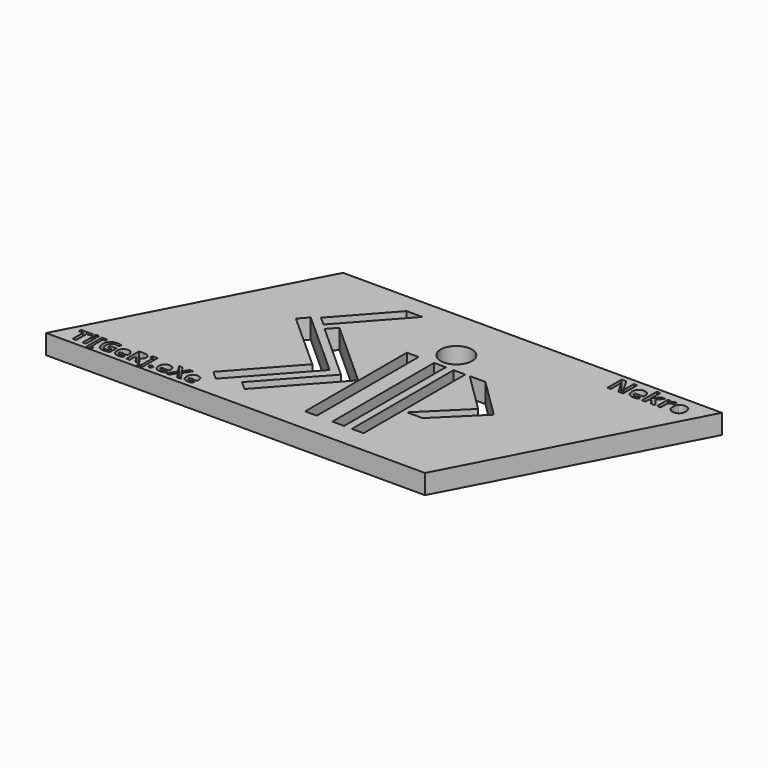
from build123d import *

# Parameters (mm, degrees)
F0_W     = 1.0768817274
F0_H     = 3.9481896701
F0_W_2   = 3.81
F0_H_2   = 41.2525174606
F0_R     = 5.08
F1_DEPTH = 6.35


with BuildPart() as f1:
    # F0 (on Top) → F1 (new body)
    with BuildSketch(Plane.XY):
        Polygon((24.3400321393, 46.8146689456), (-60.4495673837, 46.8146689456), (-98.5495673837, -25.9498842061), (24.3400321393, -25.9498842061), (62.4400321393, 46.8146689456), align=None)
        Polygon((-90.1926522909, -19.9972726766), (-90.1926522909, -24.2494300116), (-91.2876138794, -24.2494300116), (-91.2876138794, -19.9972726766), (-92.6899331068, -19.9972726766), (-92.6899331068, -19.0864996731), (-88.7914630548, -19.0864996731), (-88.7914630548, -19.9972726766), align=None, mode=Mode.SUBTRACT)
        with Locations((-87.5433876424, -22.2753351766)):
            Rectangle(F0_W, F0_H, mode=Mode.SUBTRACT)
        Polygon((-84.2262981242, -24.6483169474), (-84.2262981242, -25.3941112182), (-85.9348449992, -25.3941112182), (-85.9348449992, -19.0864996731), (-84.2262981242, -19.0864996731), (-84.2262981242, -19.8322939439), (-85.0172920478, -19.8322939439), (-85.0172920478, -24.6483169474), align=None, mode=Mode.SUBTRACT)
        with BuildLine():
            Line((-81.4363495565, -22.2617752807), (-81.4363495565, -21.3498722859))
            Line((-81.4363495565, -21.3498722859), (-79.3876752943, -21.3498722859))
            Line((-79.3876752943, -21.3498722859), (-79.3876752943, -24.0268217217))
            add(Edge.make_bspline(
                [(-79.3876752943, -24.0268217217), (-79.8860014662, -24.1895404717), (-80.3255680895, -24.2550799682)],
                knots=[0, 0, 0, 1, 1, 1], degree=2))
            add(Edge.make_bspline(
                [(-80.3255680895, -24.2550799682), (-80.7651347127, -24.3206194648), (-81.2239111884, -24.3206194648)],
                knots=[0, 0, 0, 1, 1, 1], degree=2))
            add(Edge.make_bspline(
                [(-81.2239111884, -24.3206194648), (-82.3923222127, -24.3206194648), (-83.0087324775, -23.6335847425)],
                knots=[0, 0, 0, 1, 1, 1], degree=2))
            add(Edge.make_bspline(
                [(-83.0087324775, -23.6335847425), (-83.6251427423, -22.9465500203), (-83.6251427423, -21.6606198988)],
                knots=[0, 0, 0, 1, 1, 1], degree=2))
            add(Edge.make_bspline(
                [(-83.6251427423, -21.6606198988), (-83.6251427423, -20.4108494995), (-82.9098582371, -19.7119498684)],
                knots=[0, 0, 0, 1, 1, 1], degree=2))
            add(Edge.make_bspline(
                [(-82.9098582371, -19.7119498684), (-82.1945737318, -19.0130502373), (-80.9278534627, -19.0130502373)],
                knots=[0, 0, 0, 1, 1, 1], degree=2))
            add(Edge.make_bspline(
                [(-80.9278534627, -19.0130502373), (-80.1323395739, -19.0130502373), (-79.3944552423, -19.3305777981)],
                knots=[0, 0, 0, 1, 1, 1], degree=2))
            Line((-79.3944552423, -19.3305777981), (-79.7583124471, -20.2063210707))
            add(Edge.make_bspline(
                [(-79.7583124471, -20.2063210707), (-80.3233081068, -19.9238232408), (-80.9346334107, -19.9238232408)],
                knots=[0, 0, 0, 1, 1, 1], degree=2))
            add(Edge.make_bspline(
                [(-80.9346334107, -19.9238232408), (-81.6442679593, -19.9238232408), (-82.071404678, -20.4006795776)],
                knots=[0, 0, 0, 1, 1, 1], degree=2))
            add(Edge.make_bspline(
                [(-82.071404678, -20.4006795776), (-82.4985413968, -20.8775359144), (-82.4985413968, -21.6820897339)],
                knots=[0, 0, 0, 1, 1, 1], degree=2))
            add(Edge.make_bspline(
                [(-82.4985413968, -21.6820897339), (-82.4985413968, -22.5228032755), (-82.15445904, -22.9657598727)],
                knots=[0, 0, 0, 1, 1, 1], degree=2))
            add(Edge.make_bspline(
                [(-82.15445904, -22.9657598727), (-81.8103766832, -23.40871647), (-81.1538517266, -23.40871647)],
                knots=[0, 0, 0, 1, 1, 1], degree=2))
            add(Edge.make_bspline(
                [(-81.1538517266, -23.40871647), (-80.8103343655, -23.40871647), (-80.4577770739, -23.3386570082)],
                knots=[0, 0, 0, 1, 1, 1], degree=2))
            Line((-80.4577770739, -23.3386570082), (-80.4577770739, -22.2617752807))
            Line((-80.4577770739, -22.2617752807), (-81.4363495565, -22.2617752807))
        make_face(mode=Mode.SUBTRACT)
        with BuildLine():
            add(Edge.make_bspline(
                [(-87.5416926555, -19.8108241089), (-88.1281581502, -19.8108241089), (-88.1281581502, -19.28085818)],
                knots=[0, 0, 0, 1, 1, 1], degree=2))
            add(Edge.make_bspline(
                [(-88.1281581502, -19.28085818), (-88.1281581502, -18.7542822252), (-87.5416926555, -18.7542822252)],
                knots=[0, 0, 0, 1, 1, 1], degree=2))
            add(Edge.make_bspline(
                [(-87.5416926555, -18.7542822252), (-86.9552271607, -18.7542822252), (-86.9552271607, -19.28085818)],
                knots=[0, 0, 0, 1, 1, 1], degree=2))
            add(Edge.make_bspline(
                [(-86.9552271607, -19.28085818), (-86.9552271607, -19.5317162529), (-87.1015610365, -19.6712701809)],
                knots=[0, 0, 0, 1, 1, 1], degree=2))
            add(Edge.make_bspline(
                [(-87.1015610365, -19.6712701809), (-87.2478949124, -19.8108241089), (-87.5416926555, -19.8108241089)],
                knots=[0, 0, 0, 1, 1, 1], degree=2))
        make_face(mode=Mode.SUBTRACT)
        with BuildLine():
            add(Edge.make_bspline(
                [(-75.6733938273, -24.2516899943), (-75.9943113621, -24.3206194648), (-76.457607803, -24.3206194648)],
                knots=[0, 0, 0, 1, 1, 1], degree=2))
            add(Edge.make_bspline(
                [(-76.457607803, -24.3206194648), (-77.4101904853, -24.3206194648), (-77.9469363621, -23.7940435099)],
                knots=[0, 0, 0, 1, 1, 1], degree=2))
            add(Edge.make_bspline(
                [(-77.9469363621, -23.7940435099), (-78.4836822388, -23.267467555), (-78.4836822388, -22.3035849595)],
                knots=[0, 0, 0, 1, 1, 1], degree=2))
            add(Edge.make_bspline(
                [(-78.4836822388, -22.3035849595), (-78.4836822388, -21.3114525811), (-77.9876160496, -20.7696217434)],
                knots=[0, 0, 0, 1, 1, 1], degree=2))
            add(Edge.make_bspline(
                [(-77.9876160496, -20.7696217434), (-77.4915498603, -20.2277909057), (-76.6158065877, -20.2277909057)],
                knots=[0, 0, 0, 1, 1, 1], degree=2))
            add(Edge.make_bspline(
                [(-76.6158065877, -20.2277909057), (-75.7796130114, -20.2277909057), (-75.3134915921, -20.7040822469)],
                knots=[0, 0, 0, 1, 1, 1], degree=2))
            add(Edge.make_bspline(
                [(-75.3134915921, -20.7040822469), (-74.8473701728, -21.180373588), (-74.8473701728, -22.0210871297)],
                knots=[0, 0, 0, 1, 1, 1], degree=2))
            Line((-74.8473701728, -22.0210871297), (-74.8473701728, -22.5442731106))
            Line((-74.8473701728, -22.5442731106), (-77.3932406155, -22.5442731106))
            add(Edge.make_bspline(
                [(-77.3932406155, -22.5442731106), (-77.3751607544, -23.0030495863), (-77.1209127075, -23.2606876071)],
                knots=[0, 0, 0, 1, 1, 1], degree=2))
            add(Edge.make_bspline(
                [(-77.1209127075, -23.2606876071), (-76.8666646607, -23.5183256279), (-76.407888185, -23.5183256279)],
                knots=[0, 0, 0, 1, 1, 1], degree=2))
            add(Edge.make_bspline(
                [(-76.407888185, -23.5183256279), (-76.050810928, -23.5183256279), (-75.7332833673, -23.4443111965)],
                knots=[0, 0, 0, 1, 1, 1], degree=2))
            add(Edge.make_bspline(
                [(-75.7332833673, -23.4443111965), (-75.4157558065, -23.3702967651), (-75.0699784627, -23.2075780151)],
                knots=[0, 0, 0, 1, 1, 1], degree=2))
            Line((-75.0699784627, -23.2075780151), (-75.0699784627, -24.0415116089))
            add(Edge.make_bspline(
                [(-75.0699784627, -24.0415116089), (-75.3524762926, -24.1827605238), (-75.6733938273, -24.2516899943)],
                knots=[0, 0, 0, 1, 1, 1], degree=2))
        make_face(mode=Mode.SUBTRACT)
        with BuildLine():
            Line((-72.2099704332, -22.2685552286), (-72.7919159627, -22.2685552286))
            Line((-72.7919159627, -22.2685552286), (-72.7919159627, -24.2494300116))
            Line((-72.7919159627, -24.2494300116), (-73.8868775513, -24.2494300116))
            Line((-73.8868775513, -24.2494300116), (-73.8868775513, -19.0864996731))
            Line((-73.8868775513, -19.0864996731), (-72.3828591051, -19.0864996731))
            add(Edge.make_bspline(
                [(-72.3828591051, -19.0864996731), (-71.3297071954, -19.0864996731), (-70.8251660713, -19.4695667304)],
                knots=[0, 0, 0, 1, 1, 1], degree=2))
            add(Edge.make_bspline(
                [(-70.8251660713, -19.4695667304), (-70.3206249471, -19.8526337877), (-70.3206249471, -20.6334577894)],
                knots=[0, 0, 0, 1, 1, 1], degree=2))
            add(Edge.make_bspline(
                [(-70.3206249471, -20.6334577894), (-70.3206249471, -21.0888442911), (-70.5709180244, -21.4436615654)],
                knots=[0, 0, 0, 1, 1, 1], degree=2))
            add(Edge.make_bspline(
                [(-70.5709180244, -21.4436615654), (-70.8212111016, -21.7984788398), (-71.2811175687, -21.9996172946)],
                knots=[0, 0, 0, 1, 1, 1], degree=2))
            add(Edge.make_bspline(
                [(-71.2811175687, -21.9996172946), (-70.114966527, -23.7409339179), (-69.7624092353, -24.2494300116)],
                knots=[0, 0, 0, 1, 1, 1], degree=2))
            Line((-69.7624092353, -24.2494300116), (-70.9771499037, -24.2494300116))
            Line((-70.9771499037, -24.2494300116), (-72.2099704332, -22.2685552286))
        make_face(mode=Mode.SUBTRACT)
        Polygon((-69.5827406155, -25.3941112182), (-69.5827406155, -24.6483169474), (-68.7951366659, -24.6483169474), (-68.7951366659, -19.8322939439), (-69.5827406155, -19.8322939439), (-69.5827406155, -19.0864996731), (-67.8730637492, -19.0864996731), (-67.8730637492, -25.3941112182), align=None, mode=Mode.SUBTRACT)
        with BuildLine():
            add(Edge.make_bspline(
                [(-66.7922270522, -24.1872804891), (-66.9543808065, -24.0302116957), (-66.9543808065, -23.7443238918)],
                knots=[0, 0, 0, 1, 1, 1], degree=2))
            add(Edge.make_bspline(
                [(-66.9543808065, -23.7443238918), (-66.9543808065, -23.4482661661), (-66.7956170261, -23.2962823337)],
                knots=[0, 0, 0, 1, 1, 1], degree=2))
            add(Edge.make_bspline(
                [(-66.7956170261, -23.2962823337), (-66.6368532457, -23.1442985012), (-66.3328855808, -23.1442985012)],
                knots=[0, 0, 0, 1, 1, 1], degree=2))
            add(Edge.make_bspline(
                [(-66.3328855808, -23.1442985012), (-66.0402178291, -23.1442985012), (-65.8797590617, -23.2996723076)],
                knots=[0, 0, 0, 1, 1, 1], degree=2))
            add(Edge.make_bspline(
                [(-65.8797590617, -23.2996723076), (-65.7193002943, -23.4550461141), (-65.7193002943, -23.7443238918)],
                knots=[0, 0, 0, 1, 1, 1], degree=2))
            add(Edge.make_bspline(
                [(-65.7193002943, -23.7443238918), (-65.7193002943, -24.0234317477), (-65.8814540487, -24.1838905151)],
                knots=[0, 0, 0, 1, 1, 1], degree=2))
            add(Edge.make_bspline(
                [(-65.8814540487, -24.1838905151), (-66.043607803, -24.3443492825), (-66.3328855808, -24.3443492825)],
                knots=[0, 0, 0, 1, 1, 1], degree=2))
            add(Edge.make_bspline(
                [(-66.3328855808, -24.3443492825), (-66.6300732978, -24.3443492825), (-66.7922270522, -24.1872804891)],
                knots=[0, 0, 0, 1, 1, 1], degree=2))
        make_face(mode=Mode.SUBTRACT)
        with BuildLine():
            add(Edge.make_bspline(
                [(-62.16999756, -24.2516899943), (-62.4909150947, -24.3206194648), (-62.9542115357, -24.3206194648)],
                knots=[0, 0, 0, 1, 1, 1], degree=2))
            add(Edge.make_bspline(
                [(-62.9542115357, -24.3206194648), (-63.906794218, -24.3206194648), (-64.4435400947, -23.7940435099)],
                knots=[0, 0, 0, 1, 1, 1], degree=2))
            add(Edge.make_bspline(
                [(-64.4435400947, -23.7940435099), (-64.9802859714, -23.267467555), (-64.9802859714, -22.3035849595)],
                knots=[0, 0, 0, 1, 1, 1], degree=2))
            add(Edge.make_bspline(
                [(-64.9802859714, -22.3035849595), (-64.9802859714, -21.3114525811), (-64.4842197822, -20.7696217434)],
                knots=[0, 0, 0, 1, 1, 1], degree=2))
            add(Edge.make_bspline(
                [(-64.4842197822, -20.7696217434), (-63.988153593, -20.2277909057), (-63.1124103204, -20.2277909057)],
                knots=[0, 0, 0, 1, 1, 1], degree=2))
            add(Edge.make_bspline(
                [(-63.1124103204, -20.2277909057), (-62.276216744, -20.2277909057), (-61.8100953247, -20.7040822469)],
                knots=[0, 0, 0, 1, 1, 1], degree=2))
            add(Edge.make_bspline(
                [(-61.8100953247, -20.7040822469), (-61.3439739055, -21.180373588), (-61.3439739055, -22.0210871297)],
                knots=[0, 0, 0, 1, 1, 1], degree=2))
            Line((-61.3439739055, -22.0210871297), (-61.3439739055, -22.5442731106))
            Line((-61.3439739055, -22.5442731106), (-63.8898443482, -22.5442731106))
            add(Edge.make_bspline(
                [(-63.8898443482, -22.5442731106), (-63.8717644871, -23.0030495863), (-63.6175164402, -23.2606876071)],
                knots=[0, 0, 0, 1, 1, 1], degree=2))
            add(Edge.make_bspline(
                [(-63.6175164402, -23.2606876071), (-63.3632683933, -23.5183256279), (-62.9044919176, -23.5183256279)],
                knots=[0, 0, 0, 1, 1, 1], degree=2))
            add(Edge.make_bspline(
                [(-62.9044919176, -23.5183256279), (-62.5474146607, -23.5183256279), (-62.2298870999, -23.4443111965)],
                knots=[0, 0, 0, 1, 1, 1], degree=2))
            add(Edge.make_bspline(
                [(-62.2298870999, -23.4443111965), (-61.9123595391, -23.3702967651), (-61.5665821954, -23.2075780151)],
                knots=[0, 0, 0, 1, 1, 1], degree=2))
            Line((-61.5665821954, -23.2075780151), (-61.5665821954, -24.0415116089))
            add(Edge.make_bspline(
                [(-61.5665821954, -24.0415116089), (-61.8490800252, -24.1827605238), (-62.16999756, -24.2516899943)],
                knots=[0, 0, 0, 1, 1, 1], degree=2))
        make_face(mode=Mode.SUBTRACT)
        Polygon((-57.9539999471, -21.6470600029), (-56.2092933499, -24.2494300116), (-57.4590637492, -24.2494300116), (-58.6602445218, -22.2968050116), (-59.860295303, -24.2494300116), (-61.0332262926, -24.2494300116), (-59.3201594523, -21.587170463), (-60.9236171346, -19.0864996731), (-59.7156564141, -19.0864996731), (-58.6037449558, -20.9442054023), (-57.5121733412, -19.0864996731), (-56.333592395, -19.0864996731), align=None, mode=Mode.SUBTRACT)
        with BuildLine():
            add(Edge.make_bspline(
                [(-53.0735674384, -24.2516899943), (-53.3944849732, -24.3206194648), (-53.8577814141, -24.3206194648)],
                knots=[0, 0, 0, 1, 1, 1], degree=2))
            add(Edge.make_bspline(
                [(-53.8577814141, -24.3206194648), (-54.8103640964, -24.3206194648), (-55.3471099732, -23.7940435099)],
                knots=[0, 0, 0, 1, 1, 1], degree=2))
            add(Edge.make_bspline(
                [(-55.3471099732, -23.7940435099), (-55.8838558499, -23.267467555), (-55.8838558499, -22.3035849595)],
                knots=[0, 0, 0, 1, 1, 1], degree=2))
            add(Edge.make_bspline(
                [(-55.8838558499, -22.3035849595), (-55.8838558499, -21.3114525811), (-55.3877896607, -20.7696217434)],
                knots=[0, 0, 0, 1, 1, 1], degree=2))
            add(Edge.make_bspline(
                [(-55.3877896607, -20.7696217434), (-54.8917234714, -20.2277909057), (-54.0159801989, -20.2277909057)],
                knots=[0, 0, 0, 1, 1, 1], degree=2))
            add(Edge.make_bspline(
                [(-54.0159801989, -20.2277909057), (-53.1797866225, -20.2277909057), (-52.7136652032, -20.7040822469)],
                knots=[0, 0, 0, 1, 1, 1], degree=2))
            add(Edge.make_bspline(
                [(-52.7136652032, -20.7040822469), (-52.2475437839, -21.180373588), (-52.2475437839, -22.0210871297)],
                knots=[0, 0, 0, 1, 1, 1], degree=2))
            Line((-52.2475437839, -22.0210871297), (-52.2475437839, -22.5442731106))
            Line((-52.2475437839, -22.5442731106), (-54.7934142266, -22.5442731106))
            add(Edge.make_bspline(
                [(-54.7934142266, -22.5442731106), (-54.7753343655, -23.0030495863), (-54.5210863187, -23.2606876071)],
                knots=[0, 0, 0, 1, 1, 1], degree=2))
            add(Edge.make_bspline(
                [(-54.5210863187, -23.2606876071), (-54.2668382718, -23.5183256279), (-53.8080617961, -23.5183256279)],
                knots=[0, 0, 0, 1, 1, 1], degree=2))
            add(Edge.make_bspline(
                [(-53.8080617961, -23.5183256279), (-53.4509845391, -23.5183256279), (-53.1334569784, -23.4443111965)],
                knots=[0, 0, 0, 1, 1, 1], degree=2))
            add(Edge.make_bspline(
                [(-53.1334569784, -23.4443111965), (-52.8159294176, -23.3702967651), (-52.4701520739, -23.2075780151)],
                knots=[0, 0, 0, 1, 1, 1], degree=2))
            Line((-52.4701520739, -23.2075780151), (-52.4701520739, -24.0415116089))
            add(Edge.make_bspline(
                [(-52.4701520739, -24.0415116089), (-52.7526499037, -24.1827605238), (-53.0735674384, -24.2516899943)],
                knots=[0, 0, 0, 1, 1, 1], degree=2))
        make_face(mode=Mode.SUBTRACT)
        Polygon((-54.0995673837, 19.7564052306), (-51.552794192, 22.5901388649), (-32.6460846729, 5.6285252872), (-29.807531414, 3.0819984339), (-32.3690509945, 0.2318568454), (-49.3284006848, -18.672329172), (-52.1644071127, -16.1280871353), (-35.1903256954, 2.7925199897), align=None, mode=Mode.SUBTRACT)
        Polygon((-44.8753105365, 19.8662729276), (-42.3285373448, 22.7000065618), (-23.436979783, 5.7215186171), (-20.6032461487, 3.1747454254), (-23.1517854681, 0.3390466631), (-40.1302734129, -18.5525108987), (-42.9640070471, -16.005737707), (-25.9837529747, 2.8877849828), align=None, mode=Mode.SUBTRACT)
        with Locations((-18.5649433869, 2.0940999396)):
            Rectangle(F0_W_2, F0_H_2, mode=Mode.SUBTRACT)
        with Locations((-9.6756167746, 2.0113885988)):
            Rectangle(F0_W_2, F0_H_2, mode=Mode.SUBTRACT)
        with Locations((-3.3257010499, 1.9906977471)):
            Rectangle(F0_W_2, F0_H_2, mode=Mode.SUBTRACT)
        Polygon((12.9100321393, 9.8957462941), (0, 22.6169564774), (5.08, 22.6169564774), (17.9900321393, 9.8957462941), (5.08, -2.8254638892), (0, -2.8254638892), align=None, mode=Mode.SUBTRACT)
        Polygon((-46.5986006285, 21.5579594265), (-49.4346070564, 24.1022014632), (-34.7554874383, 40.4646689456), (-29.6369870508, 40.4646689456), align=None, mode=Mode.SUBTRACT)
        with Locations((-9.802618064, 29.4407680631)):
            Circle(F0_R, mode=Mode.SUBTRACT)
        with BuildLine():
            add(Edge.make_bspline(
                [(40.4761865696, 39.454581701), (40.1215668341, 39.3784133776), (39.6096158074, 39.3784133776)],
                knots=[0, 0, 0, 1, 1, 1], degree=2))
            add(Edge.make_bspline(
                [(39.6096158074, 39.3784133776), (38.5569945502, 39.3784133776), (37.9638805559, 39.9602894225)],
                knots=[0, 0, 0, 1, 1, 1], degree=2))
            add(Edge.make_bspline(
                [(37.9638805559, 39.9602894225), (37.3707665616, 40.5421654674), (37.3707665616, 41.6072733351)],
                knots=[0, 0, 0, 1, 1, 1], degree=2))
            add(Edge.make_bspline(
                [(37.3707665616, 41.6072733351), (37.3707665616, 42.7035977288), (37.9189287584, 43.3023306978)],
                knots=[0, 0, 0, 1, 1, 1], degree=2))
            add(Edge.make_bspline(
                [(37.9189287584, 43.3023306978), (38.4670909552, 43.9010636668), (39.4348032617, 43.9010636668)],
                knots=[0, 0, 0, 1, 1, 1], degree=2))
            add(Edge.make_bspline(
                [(39.4348032617, 43.9010636668), (40.3588124318, 43.9010636668), (40.8738851111, 43.3747530381)],
                knots=[0, 0, 0, 1, 1, 1], degree=2))
            add(Edge.make_bspline(
                [(40.8738851111, 43.3747530381), (41.3889577903, 42.8484424095), (41.3889577903, 41.9194385953)],
                knots=[0, 0, 0, 1, 1, 1], degree=2))
            Line((41.3889577903, 41.9194385953), (41.3889577903, 41.3413085334))
            Line((41.3889577903, 41.3413085334), (38.5757244658, 41.3413085334))
            add(Edge.make_bspline(
                [(38.5757244658, 41.3413085334), (38.5957030424, 40.8343521509), (38.8766517766, 40.5496574337)],
                knots=[0, 0, 0, 1, 1, 1], degree=2))
            add(Edge.make_bspline(
                [(38.8766517766, 40.5496574337), (39.1576005107, 40.2649627164), (39.6645568932, 40.2649627164)],
                knots=[0, 0, 0, 1, 1, 1], degree=2))
            add(Edge.make_bspline(
                [(39.6645568932, 40.2649627164), (40.0591337821, 40.2649627164), (40.4100075345, 40.3467500146)],
                knots=[0, 0, 0, 1, 1, 1], degree=2))
            add(Edge.make_bspline(
                [(40.4100075345, 40.3467500146), (40.7608812869, 40.4285373127), (41.1429715653, 40.6083445026)],
                knots=[0, 0, 0, 1, 1, 1], degree=2))
            Line((41.1429715653, 40.6083445026), (41.1429715653, 39.6868326546))
            add(Edge.make_bspline(
                [(41.1429715653, 39.6868326546), (40.8308063052, 39.5307500245), (40.4761865696, 39.454581701)],
                knots=[0, 0, 0, 1, 1, 1], degree=2))
        make_face(mode=Mode.SUBTRACT)
        with BuildLine():
            Line((36.2931720835, 45.1622113178), (36.2931720835, 39.4570790231))
            Line((36.2931720835, 39.4570790231), (34.7560703425, 39.4570790231))
            Line((34.7560703425, 39.4570790231), (32.2737321937, 43.7724515796))
            Line((32.2737321937, 43.7724515796), (32.2387696845, 43.7724515796))
            add(Edge.make_bspline(
                [(32.2387696845, 43.7724515796), (32.313689347, 42.6299267274), (32.313689347, 42.1417002605)],
                knots=[0, 0, 0, 1, 1, 1], degree=2))
            Line((32.313689347, 42.1417002605), (32.313689347, 39.4570790231))
            Line((32.313689347, 39.4570790231), (31.2323488858, 39.4570790231))
            Line((31.2323488858, 39.4570790231), (31.2323488858, 45.1622113178))
            Line((31.2323488858, 45.1622113178), (32.7582126774, 45.1622113178))
            Line((32.7582126774, 45.1622113178), (35.2355561821, 40.8892932367))
            Line((35.2355561821, 40.8892932367), (35.263026725, 40.8892932367))
            add(Edge.make_bspline(
                [(35.263026725, 40.8892932367), (35.204339656, 42.0018502239), (35.204339656, 42.4613574869)],
                knots=[0, 0, 0, 1, 1, 1], degree=2))
            Line((35.204339656, 42.4613574869), (35.204339656, 45.1622113178))
            Line((35.204339656, 45.1622113178), (36.2931720835, 45.1622113178))
        make_face(mode=Mode.SUBTRACT)
        with BuildLine():
            add(Edge.make_bspline(
                [(48.9964251804, 43.67692901), (49.3416799582, 43.9010636668), (49.7474947964, 43.9010636668)],
                knots=[0, 0, 0, 1, 1, 1], degree=2))
            add(Edge.make_bspline(
                [(49.7474947964, 43.9010636668), (49.9897350383, 43.9010636668), (50.1495636515, 43.8661011576)],
                knots=[0, 0, 0, 1, 1, 1], degree=2))
            Line((50.1495636515, 43.8661011576), (50.0596600565, 42.7510468483))
            add(Edge.make_bspline(
                [(50.0596600565, 42.7510468483), (49.9148153758, 42.7897553406), (49.7087863041, 42.7897553406)],
                knots=[0, 0, 0, 1, 1, 1], degree=2))
            add(Edge.make_bspline(
                [(49.7087863041, 42.7897553406), (49.1393968696, 42.7897553406), (48.8209883042, 42.4969443266)],
                knots=[0, 0, 0, 1, 1, 1], degree=2))
            add(Edge.make_bspline(
                [(48.8209883042, 42.4969443266), (48.5025797389, 42.2041333125), (48.5025797389, 41.6771983534)],
                knots=[0, 0, 0, 1, 1, 1], degree=2))
            Line((48.5025797389, 41.6771983534), (48.5025797389, 39.4570790231))
            Line((48.5025797389, 39.4570790231), (47.3126057671, 39.4570790231))
            Line((47.3126057671, 39.4570790231), (47.3126057671, 43.8199006991))
            Line((47.3126057671, 43.8199006991), (48.2141390385, 43.8199006991))
            Line((48.2141390385, 43.8199006991), (48.3902002452, 43.0856880072))
            Line((48.3902002452, 43.0856880072), (48.4476386531, 43.0856880072))
            add(Edge.make_bspline(
                [(48.4476386531, 43.0856880072), (48.6511704027, 43.4527943532), (48.9964251804, 43.67692901)],
                knots=[0, 0, 0, 1, 1, 1], degree=2))
        make_face(mode=Mode.SUBTRACT)
        with BuildLine():
            add(Edge.make_bspline(
                [(54.6484893809, 42.8440720959), (54.9057135552, 42.3327453997), (54.9057135552, 41.6459818274)],
                knots=[0, 0, 0, 1, 1, 1], degree=2))
            add(Edge.make_bspline(
                [(54.9057135552, 41.6459818274), (54.9057135552, 40.5808739597), (54.343816087, 39.9796436686)],
                knots=[0, 0, 0, 1, 1, 1], degree=2))
            add(Edge.make_bspline(
                [(54.343816087, 39.9796436686), (53.7819186187, 39.3784133776), (52.779243803, 39.3784133776)],
                knots=[0, 0, 0, 1, 1, 1], degree=2))
            add(Edge.make_bspline(
                [(52.779243803, 39.3784133776), (52.1511672996, 39.3784133776), (51.6710571295, 39.653743137)],
                knots=[0, 0, 0, 1, 1, 1], degree=2))
            add(Edge.make_bspline(
                [(51.6710571295, 39.653743137), (51.1909469593, 39.9290728965), (50.933722785, 40.4441455757)],
                knots=[0, 0, 0, 1, 1, 1], degree=2))
            add(Edge.make_bspline(
                [(50.933722785, 40.4441455757), (50.6764986106, 40.959218255), (50.6764986106, 41.6459818274)],
                knots=[0, 0, 0, 1, 1, 1], degree=2))
            add(Edge.make_bspline(
                [(50.6764986106, 41.6459818274), (50.6764986106, 42.7148356781), (51.2340257652, 43.3079496725)],
                knots=[0, 0, 0, 1, 1, 1], degree=2))
            add(Edge.make_bspline(
                [(51.2340257652, 43.3079496725), (51.7915529199, 43.9010636668), (52.8029683628, 43.9010636668)],
                knots=[0, 0, 0, 1, 1, 1], degree=2))
            add(Edge.make_bspline(
                [(52.8029683628, 43.9010636668), (53.4310448663, 43.9010636668), (53.9111550364, 43.6282312294)],
                knots=[0, 0, 0, 1, 1, 1], degree=2))
            add(Edge.make_bspline(
                [(53.9111550364, 43.6282312294), (54.3912652065, 43.355398792), (54.6484893809, 42.8440720959)],
                knots=[0, 0, 0, 1, 1, 1], degree=2))
        make_face(mode=Mode.SUBTRACT)
        Polygon((43.4842110165, 41.8295350003), (43.5004436101, 41.8295350003), (44.0186379419, 42.4925740129), (45.2398284397, 43.8199006991), (46.5821390583, 43.8199006991), (44.850246195, 41.9269305615), (46.6882752468, 39.4570790231), (45.3147481021, 39.4570790231), (44.0585950952, 41.2251830567), (43.5466440686, 40.8156222353), (43.5466440686, 39.4570790231), (42.3566700968, 39.4570790231), (42.3566700968, 45.5293176637), (43.5466440686, 45.5293176637), (43.5466440686, 42.8209718666), align=None, mode=Mode.SUBTRACT)
    extrude(amount=F1_DEPTH)


solid = f1.part
